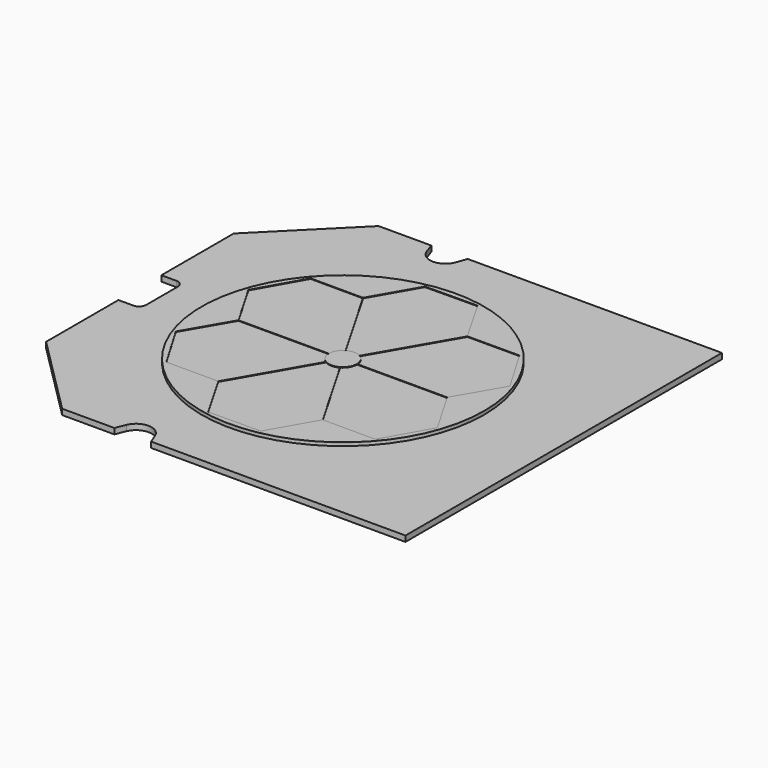
from build123d import *

# Parameters (mm, degrees)
F0_W      = 150
F0_H      = 140
F1_DEPTH  = 2
F3_DEPTH  = 2.001
F5_DEPTH  = 2.001
F7_DEPTH  = 2.001
F8_R      = 50
F9_DEPTH  = 1
F10_R     = 50
F11_DEPTH = 0.2


with BuildPart() as f1:
    # F0 (on Top) → F1 (new body)
    with BuildSketch(Plane.XY):
        Rectangle(F0_W, F0_H)
    extrude(amount=F1_DEPTH)

    # F2 (on face) → F3 (cut, through all)
    with BuildSketch(Plane.XY.offset(2)):
        Polygon((-75, 70), (-75, 41.5), (-46.5, 70), align=None)
        Polygon((-46.5, -70), (-75, -41.5), (-75, -70), align=None)
    extrude(amount=-F3_DEPTH, mode=Mode.SUBTRACT)

    # F4 (on face) → F5 (cut, through all)
    with BuildSketch(Plane.XY.offset(2)):
        with BuildLine():
            Line((-69.68, 9.5), (-75, 9.5))
            Line((-75, 9.5), (-75, -9.5))
            Line((-75, -9.5), (-69.68, -9.5))
            ThreePointArc((-69.68, -9.5), (-67.912233, -8.767767), (-67.18, -7))
            Line((-67.18, -7), (-67.18, 7))
            ThreePointArc((-67.18, 7), (-67.912233, 8.767767), (-69.68, 9.5))
        make_face()
    extrude(amount=-F5_DEPTH, mode=Mode.SUBTRACT)

    # F6 (on face) → F7 (cut, through all)
    with BuildSketch(Plane.XY.offset(2)):
        with BuildLine():
            Line((-28.031671, -70), (-15, -70))
            Line((-15, -70), (-16.416769, -66.495551))
            ThreePointArc((-16.416769, -66.495551), (-21.515836, -63.056988), (-26.614902, -66.495551))
            Line((-26.614902, -66.495551), (-28.031671, -70))
        make_face()
        with BuildLine():
            Line((-27.876137, 70), (-26.631231, 66.430881))
            ThreePointArc((-26.631231, 66.430881), (-21.438069, 62.742254), (-16.244907, 66.430881))
            Line((-16.244907, 66.430881), (-15, 70))
            Line((-15, 70), (-27.876137, 70))
        make_face()
    extrude(amount=-F7_DEPTH, mode=Mode.SUBTRACT)

    # F8 (on face) → F9 (join)
    with BuildSketch(Plane.XY.offset(2)):
        with Locations((-3.16, 0)):
            Circle(F8_R)
    extrude(amount=F9_DEPTH)


with BuildPart() as f11:
    # F10 (on face) → F11 (new body)
    with BuildSketch(Plane.XY.offset(3)):
        with Locations((-3.16, 0)):
            Circle(F10_R)
        Polygon((33.789995, 0.0174), (1.84, 0), (33.789995, -0.0174), (43.014893, -15.909946), (33.89353, -32.034094), (15.330067, -31.990934), (-0.66, -4.330127), (15.299929, -32.008335), (6.149029, -47.943603), (-12.375574, -48.106345), (-21.619929, -32.008335), (-5.66, -4.330127), (-21.650067, -31.990934), (-40.025864, -32.033657), (-49.429104, -16.072251), (-40.109995, -0.0174), (-8.16, 0), (-40.109995, 0.0174), (-49.334893, 15.909946), (-40.21353, 32.034094), (-21.650067, 31.990934), (-5.66, 4.330127), (-7.807768, 8.054854), (-21.538334, 31.86683), (-21.619929, 32.008335), (-12.469029, 47.943603), (6.055574, 48.106345), (6.137001, 47.964549), (15.299929, 32.008335), (-0.66, 4.330127), (15.330067, 31.990934), (33.705864, 32.033657), (43.109104, 16.072251), align=None, mode=Mode.SUBTRACT)
        with BuildLine():
            ThreePointArc((-0.66, -4.330127), (1.170127, -2.5), (1.84, 0))
            ThreePointArc((1.84, 0), (1.170127, 2.5), (-0.66, 4.330127))
            ThreePointArc((-0.66, 4.330127), (-3.157658, 4.999999), (-5.655943, 4.332467))
            ThreePointArc((-5.655943, 4.332467), (-5.657972, 4.331297), (-5.66, 4.330127))
            ThreePointArc((-5.66, 4.330127), (-7.490127, 2.5), (-8.16, 0))
            ThreePointArc((-8.16, 0), (-7.490127, -2.5), (-5.66, -4.330127))
            ThreePointArc((-5.66, -4.330127), (-3.16, -5), (-0.66, -4.330127))
        make_face()
    extrude(amount=F11_DEPTH)


solid = Compound([f1.part, f11.part])
